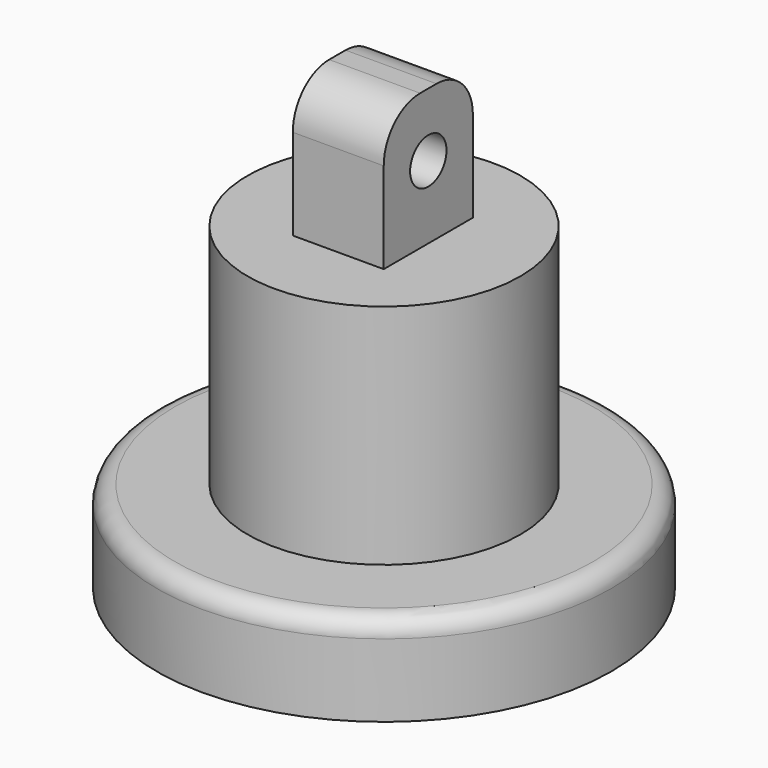
from build123d import *

# Parameters (mm, degrees)
F0_W      = 127
F0_H      = 50.8
F2_R      = 76.2
F3_DEPTH  = 127
F5_DEPTH  = 76.2
F6_R      = 25.4
F7_R      = 25.4
F8_R      = 12.7
F10_DEPTH = 152.401
F11_R     = 10


with BuildPart() as f1:
    # F0 (on Front) → F1 (revolve)
    with BuildSketch(Plane.XZ):
        with Locations((-92.3652442396, 20.6056353453)):
            Rectangle(F0_W, F0_H)
    revolve(axis=Axis((-155.8652442396, 0, 20.6056353453), (0, 0, -1)))

    # F2 (on face) → F3 (join)
    with BuildSketch(Plane.XY.offset(46.0056353453)):
        with Locations((-155.8652442396, 0)):
            Circle(F2_R)
    extrude(amount=F3_DEPTH)

    # F4 (on face) → F5 (join)
    with BuildSketch(Plane.XY.offset(173.0056353453)):
        Polygon((-130.4652442396, 30.3003561618), (-155.8652442396, 30.3003561618), (-181.2652442396, 30.3003561618), (-181.2652442396, -31.9382007305), (-155.8652442396, -31.9382007305), (-130.4652442396, -31.9382007305), align=None)
    extrude(amount=F5_DEPTH)

    # F6
    f6_edges = [f1.edges().sort_by_distance(p)[0] for p in [
        (-155.865244, 30.300356, 249.205635),
    ]]
    fillet(f6_edges, radius=F6_R)

    # F7
    f7_edges = [f1.edges().sort_by_distance(p)[0] for p in [
        (-155.865244, -31.938201, 249.205635),
    ]]
    fillet(f7_edges, radius=F7_R)

    # F8 (on face) → F10 (cut, through all)
    with BuildSketch(Plane(origin=(-181.2652442396, 0, 0), x_dir=(0, -1, 0), z_dir=(-1, 0, 0))):
        with Locations((0.8146438382, 213.611766696)):
            Circle(F8_R)
    extrude(amount=-F10_DEPTH, mode=Mode.SUBTRACT)

    # F11
    f11_edges = [f1.edges().sort_by_distance(p)[0] for p in [
        (-282.865244, 0, 46.005635),
    ]]
    fillet(f11_edges, radius=F11_R)


solid = f1.part
